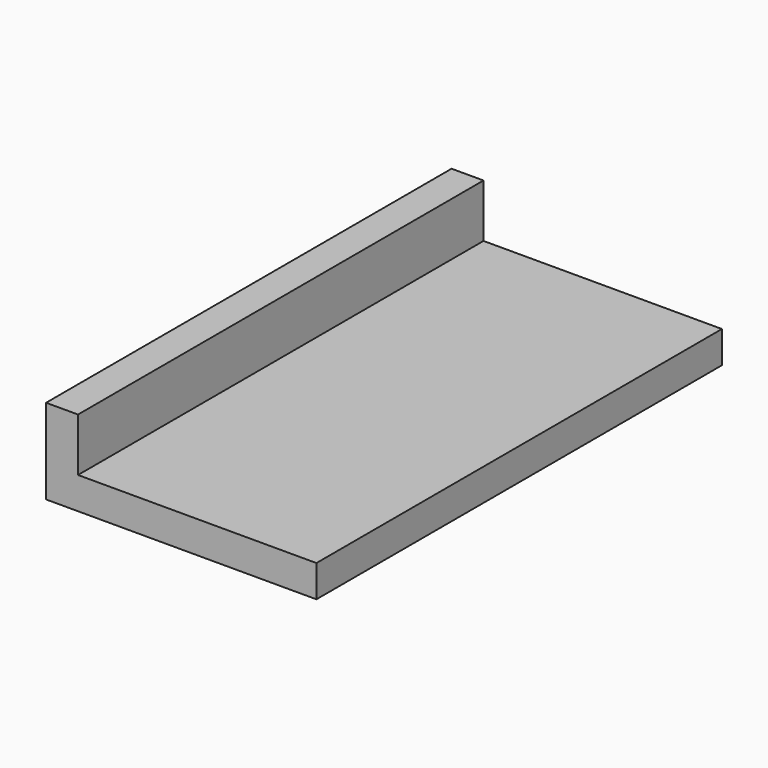
from build123d import *

# Parameters (mm, degrees)
F0_W     = 3
F0_H     = 47.625
F0_W_2   = 22.4
F1_DEPTH = 3
F2_DEPTH = 8


with BuildPart() as f1:
    # F0 (on Top) → F1 (new body)
    with BuildSketch(Plane.XY):
        with Locations((1.5, 23.8125)):
            Rectangle(F0_W, F0_H)
        with Locations((14.2, 23.8125)):
            Rectangle(F0_W_2, F0_H)
    extrude(amount=F1_DEPTH)

    # F0 (on Top) → F2 (join)
    with BuildSketch(Plane.XY):
        with Locations((1.5, 23.8125)):
            Rectangle(F0_W, F0_H)
    extrude(amount=F2_DEPTH)


solid = f1.part
